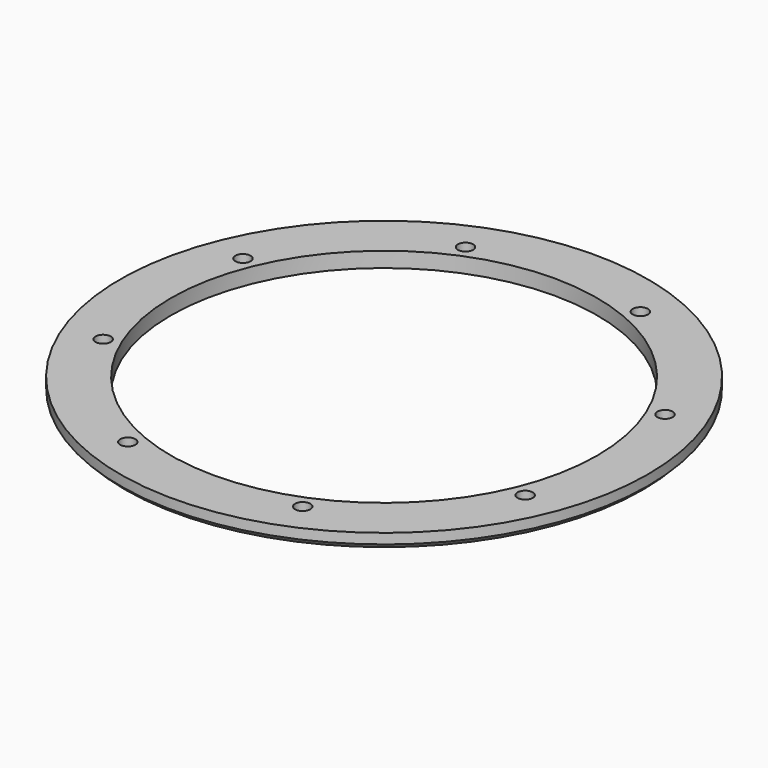
from build123d import *

# Parameters (mm, degrees)
CYLINDER658_R               = 1.5
CYLINDER658_DEPTH           = 20
CYLINDER658_PLACEMENT_ANGLE = 45
CYLINDER659_R               = 1.5
CYLINDER659_DEPTH           = 20
CYLINDER652_R               = 1.5
CYLINDER652_DEPTH           = 20
CYLINDER652_PLACEMENT_ANGLE = 135
CYLINDER655_R               = 1.5
CYLINDER655_DEPTH           = 20
CYLINDER657_R               = 1.5
CYLINDER657_DEPTH           = 20
CYLINDER657_PLACEMENT_ANGLE = 225
CYLINDER654_R               = 1.5
CYLINDER654_DEPTH           = 20
CYLINDER656_R               = 1.5
CYLINDER656_DEPTH           = 20
CYLINDER656_PLACEMENT_ANGLE = 45
CYLINDER653_R               = 1.5
CYLINDER653_DEPTH           = 20
COMPOUND660_PLACEMENT_ANGLE = 22.5
TUBE040_R                   = 52
TUBE040_R_2                 = 42
TUBE040_DEPTH               = 3
CHAMFER018_SIZE             = 1


with BuildPart() as obj1:
    # Cylinder658 → Cylinder658 (new body)
    with BuildSketch(Plane.XY):
        Circle(CYLINDER658_R)
    extrude(amount=CYLINDER658_DEPTH)


with BuildPart() as obj1_1:
    # Cylinder658 placement: moved
    add(obj1.part.moved(Location((-31.819805, 31.819805, -18))).rotate(Axis((-31.819805, 31.819805, -18), (0, 0, 1)), CYLINDER658_PLACEMENT_ANGLE))


with BuildPart() as obj2:
    # Cylinder659 → Cylinder659 (new body)
    with BuildSketch(Plane(origin=(-45, 0, -18), x_dir=(0, 1, 0), z_dir=(0, 0, 1))):
        Circle(CYLINDER659_R)
    extrude(amount=CYLINDER659_DEPTH)


with BuildPart() as obj3:
    # Cylinder652 → Cylinder652 (new body)
    with BuildSketch(Plane.XY):
        Circle(CYLINDER652_R)
    extrude(amount=CYLINDER652_DEPTH)


with BuildPart() as obj3_1:
    # Cylinder652 placement: moved
    add(obj3.part.moved(Location((-31.819805, -31.819805, -18))).rotate(Axis((-31.819805, -31.819805, -18), (0, 0, 1)), CYLINDER652_PLACEMENT_ANGLE))


with BuildPart() as obj4:
    # Cylinder655 → Cylinder655 (new body)
    with BuildSketch(Plane(origin=(0, -45, -18), x_dir=(-1, 0, 0), z_dir=(0, 0, 1))):
        Circle(CYLINDER655_R)
    extrude(amount=CYLINDER655_DEPTH)


with BuildPart() as obj5:
    # Cylinder657 → Cylinder657 (new body)
    with BuildSketch(Plane.XY):
        Circle(CYLINDER657_R)
    extrude(amount=CYLINDER657_DEPTH)


with BuildPart() as obj5_1:
    # Cylinder657 placement: moved
    add(obj5.part.moved(Location((31.819805, -31.819805, -18))).rotate(Axis((31.819805, -31.819805, -18), (0, 0, 1)), CYLINDER657_PLACEMENT_ANGLE))


with BuildPart() as obj6:
    # Cylinder654 → Cylinder654 (new body)
    with BuildSketch(Plane(origin=(45, 0, -18), x_dir=(0, -1, 0), z_dir=(0, 0, 1))):
        Circle(CYLINDER654_R)
    extrude(amount=CYLINDER654_DEPTH)


with BuildPart() as obj7:
    # Cylinder656 → Cylinder656 (new body)
    with BuildSketch(Plane.XY):
        Circle(CYLINDER656_R)
    extrude(amount=CYLINDER656_DEPTH)


with BuildPart() as obj7_1:
    # Cylinder656 placement: moved
    add(obj7.part.moved(Location((31.819805, 31.819805, -18))).rotate(Axis((31.819805, 31.819805, -18), (0, 0, -1)), CYLINDER656_PLACEMENT_ANGLE))


with BuildPart() as compound660:
    # Cylinder653 → Cylinder653 (new body)
    with BuildSketch(Plane(origin=(0, 45, -18), x_dir=(1, 0, 0), z_dir=(0, 0, 1))):
        Circle(CYLINDER653_R)
    extrude(amount=CYLINDER653_DEPTH)

    # Compound660: union obj1, obj2, obj3, obj4, obj5, obj6, obj7
    add(obj1_1.part)
    add(obj2.part)
    add(obj3_1.part)
    add(obj4.part)
    add(obj5_1.part)
    add(obj6.part)
    add(obj7_1.part)


with BuildPart() as compound660_1:
    # Compound660 placement: moved
    add(compound660.part.rotate(Axis((0, 0, 0), (0, 0, 1)), COMPOUND660_PLACEMENT_ANGLE))


with BuildPart() as j_max_encoder_belt_ring_a:
    # Tube040 → Tube040 (new body)
    with BuildSketch(Plane.XY.offset(-11)):
        Circle(TUBE040_R)
        Circle(TUBE040_R_2, mode=Mode.SUBTRACT)
    extrude(amount=TUBE040_DEPTH)

    # Cut290: cut Compound660
    add(compound660_1.part, mode=Mode.SUBTRACT)


with BuildPart() as j_max_encoder_belt_ring_a_1:
    # Cut290 placement: moved
    add(j_max_encoder_belt_ring_a.part.moved(Location((0, 0, -4))))

    # Chamfer018
    chamfer018_edges = [j_max_encoder_belt_ring_a_1.edges().sort_by_distance(p)[0] for p in [
        (-52, 0, -15),
    ]]
    chamfer(chamfer018_edges, length=CHAMFER018_SIZE)


solid = j_max_encoder_belt_ring_a_1.part
